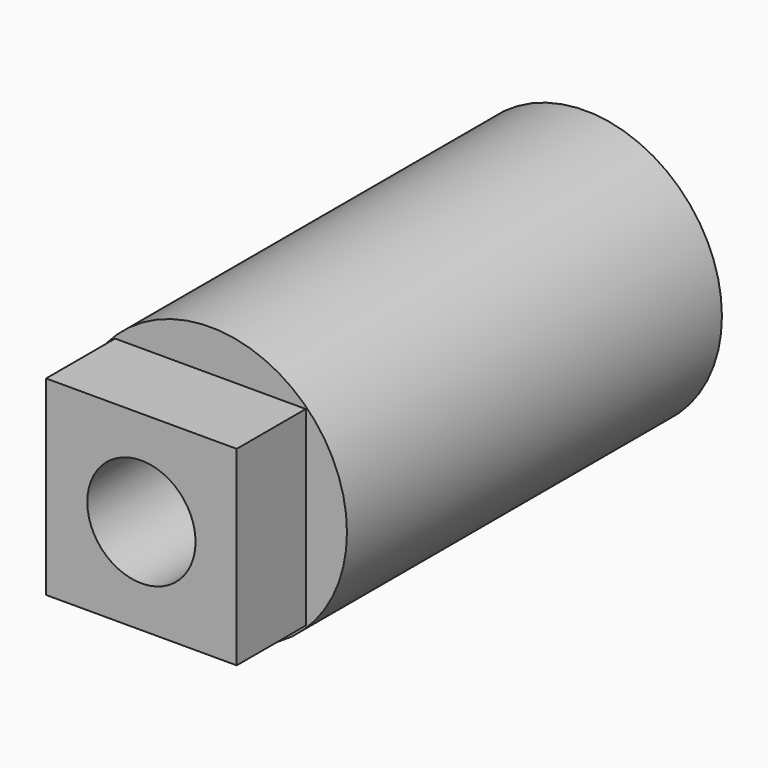
from build123d import *

# Parameters (mm, degrees)
F0_R     = 12.4968
F2_DEPTH = 42.9006
F1_W     = 17.4498
F1_H     = 17.4498
F3_DEPTH = 7.8994
F4_R     = 4.953
F5_DEPTH = 76.2


with BuildPart() as f2:
    # F0 (on Front) → F2 (new body)
    with BuildSketch(Plane.XZ):
        Circle(F0_R)
    extrude(amount=-F2_DEPTH)

    # F1 (on face) → F3 (join)
    with BuildSketch(Plane.XZ):
        Rectangle(F1_W, F1_H)
    extrude(amount=F3_DEPTH)

    # F4 (on face) → F5 (cut)
    with BuildSketch(Plane(origin=(0, 42.9006, 0), x_dir=(-1, 0, 0), z_dir=(0, 1, 0))):
        Circle(F4_R)
    extrude(amount=-F5_DEPTH, mode=Mode.SUBTRACT)


solid = f2.part
